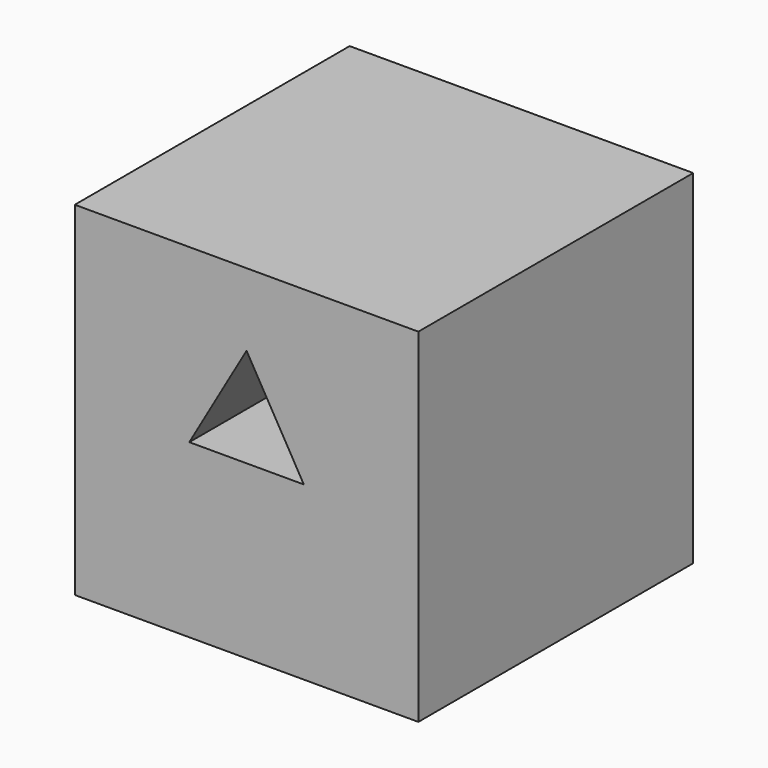
from build123d import *

# Parameters (mm, degrees)
F0_W     = 76.2
F0_H     = 76.2
F1_DEPTH = 38.1
F3_DEPTH = 76.201


with BuildPart() as f1:
    # F0 (on Front) → F1 (new body, symmetric)
    with BuildSketch(Plane.XZ):
        Rectangle(F0_W, F0_H)
    extrude(amount=F1_DEPTH, both=True)

    # F2 (on face) → F3 (cut, through all)
    with BuildSketch(Plane.XZ.offset(38.1)):
        Polygon((0, 21.997045), (-12.7, 0), (12.7, 0), align=None)
    extrude(amount=-F3_DEPTH, mode=Mode.SUBTRACT)


solid = f1.part
